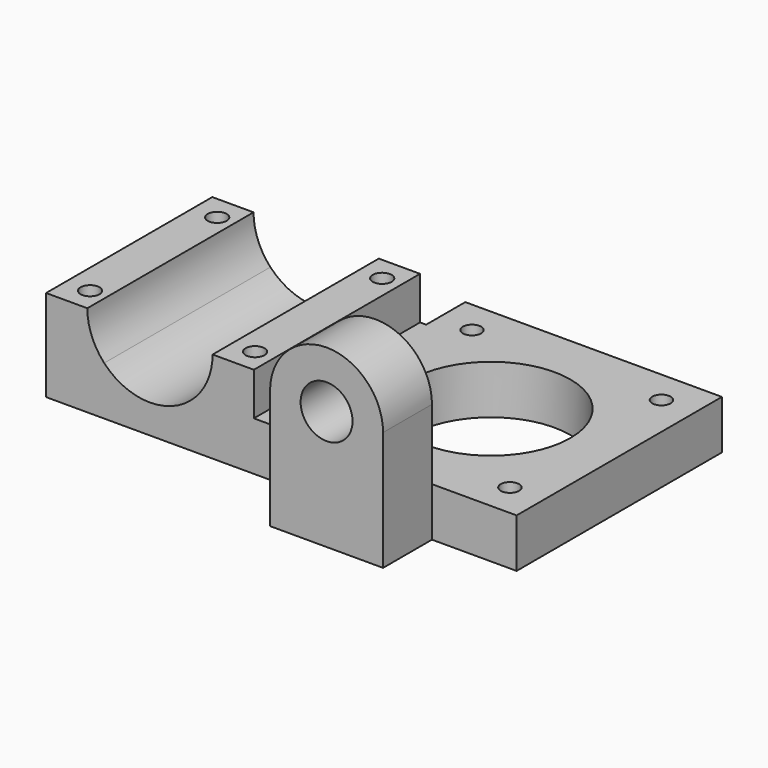
from build123d import *

# Parameters (mm, degrees)
F0_R     = 1.5
F0_R_2   = 13
F0_W     = 35
F0_H     = 34
F0_R_3   = 1.55
F1_DEPTH = 8
F2_W     = 18.5
F2_H     = 8
F2_R     = 4.25
F3_DEPTH = 10
F5_DEPTH = 34
F6_DEPTH = 42.001
F7_DEPTH = 28.751


with BuildPart() as f1:
    # F0 (on Top) → F1 (new body)
    with BuildSketch(Plane.XY):
        Polygon((21, 21), (-21, 21), (-21, 13), (-21, -21), (0, -21), (21, -21), (21, -16), align=None)
        with Locations((-15.5, -15.5)):
            Circle(F0_R, mode=Mode.SUBTRACT)
        with Locations((15.5, -15.5)):
            Circle(F0_R, mode=Mode.SUBTRACT)
        Circle(F0_R_2, mode=Mode.SUBTRACT)
        with Locations((-15.5, 15.5)):
            Circle(F0_R, mode=Mode.SUBTRACT)
        with Locations((15.5, 15.5)):
            Circle(F0_R, mode=Mode.SUBTRACT)
        with Locations((-38.5, -4)):
            Rectangle(F0_W, F0_H)
        with Locations((-52, -17)):
            Circle(F0_R_3, mode=Mode.SUBTRACT)
        with Locations((-25, -17)):
            Circle(F0_R_3, mode=Mode.SUBTRACT)
        with Locations((-52, 9)):
            Circle(F0_R_3, mode=Mode.SUBTRACT)
        with Locations((-25, 9)):
            Circle(F0_R_3, mode=Mode.SUBTRACT)
    extrude(amount=F1_DEPTH)

    # F2 (on face) → F3 (join)
    with BuildSketch(Plane.XZ.offset(21)):
        with Locations((-2.1, 4)):
            Rectangle(F2_W, F2_H)
        with BuildLine():
            Line((-11.35, 19.5), (-11.35, 8))
            Line((-11.35, 8), (7.15, 8))
            Line((7.15, 8), (7.15, 19.5))
            ThreePointArc((7.15, 19.5), (-2.1, 28.75), (-11.35, 19.5))
        make_face()
        with Locations((-2.1, 19.5)):
            Circle(F2_R, mode=Mode.SUBTRACT)
    extrude(amount=F3_DEPTH)

    # F4 (on face) → F5 (join, through all)
    with BuildSketch(Plane.XZ.offset(21)):
        with BuildLine():
            Line((-56, 15), (-56, 8))
            Line((-56, 8), (-46.4874895659, 8))
            ThreePointArc((-46.4874895659, 8), (-48.5343921686, 11.2373060217), (-49.25, 15))
            Line((-49.25, 15), (-56, 15))
        make_face()
        with BuildLine():
            ThreePointArc((-28.75, 15), (-29.4656078314, 11.2373060217), (-31.5125104341, 8))
            Line((-31.5125104341, 8), (-22, 8))
            Line((-22, 8), (-22, 15))
            Line((-22, 15), (-28.75, 15))
        make_face()
    extrude(amount=-F5_DEPTH)

    # F4 (on face) → F6 (cut, through all)
    with BuildSketch(Plane.XZ.offset(21)):
        with BuildLine():
            Line((-31.5125104341, 8), (-46.4874895659, 8))
            ThreePointArc((-46.4874895659, 8), (-39, 4.75), (-31.5125104341, 8))
        make_face()
    extrude(amount=-F6_DEPTH, mode=Mode.SUBTRACT)

    # F0 (on Top) → F7 (cut, through all)
    with BuildSketch(Plane.XY):
        with Locations((-52, -17)):
            Circle(F0_R_3)
        with Locations((-25, -17)):
            Circle(F0_R_3)
        with Locations((-25, 9)):
            Circle(F0_R_3)
        with Locations((-52, 9)):
            Circle(F0_R_3)
    extrude(amount=F7_DEPTH, mode=Mode.SUBTRACT)


solid = f1.part
